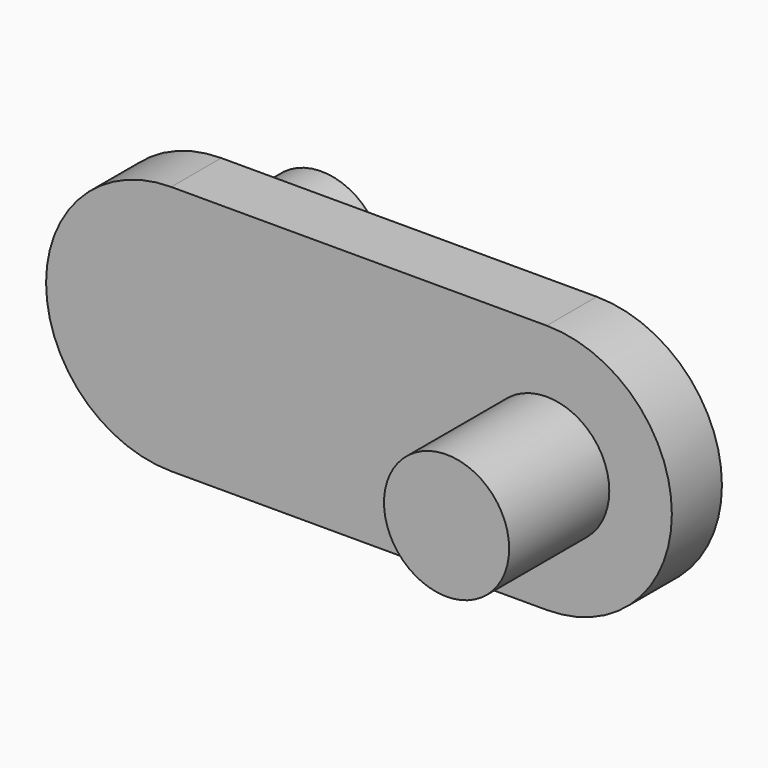
from build123d import *

# Parameters (mm, degrees)
F1_DEPTH = 5
F2_R     = 5
F3_DEPTH = 10
F4_R     = 5
F5_DEPTH = 10


with BuildPart() as f1:
    # F0 (on Front) → F1 (new body)
    with BuildSketch(Plane.XZ):
        with BuildLine():
            ThreePointArc((0, 20), (-10, 10), (0, 0))
            Line((0, 0), (30, 0))
            ThreePointArc((30, 0), (40, 10), (30, 20))
            Line((30, 20), (0, 20))
        make_face()
    extrude(amount=F1_DEPTH)

    # F2 (on face) → F3 (join)
    with BuildSketch(Plane.XZ.offset(5)):
        with Locations((30, 10)):
            Circle(F2_R)
    extrude(amount=F3_DEPTH)

    # F4 (on face) → F5 (join)
    with BuildSketch(Plane.XZ):
        with Locations((0, 10)):
            Circle(F4_R)
    extrude(amount=-F5_DEPTH)


solid = f1.part
